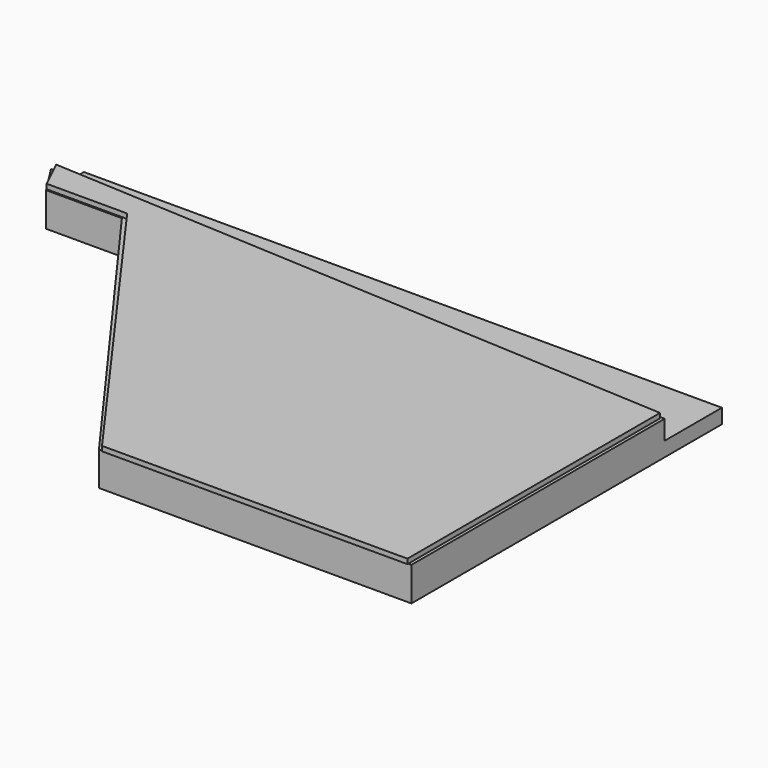
from build123d import *

# Parameters (mm, degrees)
PAD_DEPTH    = 3
SKETCH_R     = 1.75
POCKET_DEPTH = 2
PAD001_DEPTH = 4
PAD002_DEPTH = 1


with BuildPart() as part:
    # Sketch010 → Pad (new body)
    with BuildSketch(Plane.XY):
        Polygon((-46.128487, 25.244961), (1.34, -40), (65.75, -40), (65.75, 40), (-65.75, 40), (-65.75, 31.502308), (-61.754631, 25.244961), align=None)
    extrude(amount=PAD_DEPTH)

    # Sketch → Pocket (cut)
    with BuildSketch(Plane.XY):
        with Locations((-45, 36.301168)):
            Circle(SKETCH_R)
        with Locations((45, 36.301168)):
            Circle(SKETCH_R)
    extrude(amount=POCKET_DEPTH, mode=Mode.SUBTRACT)

    # Sketch011 (on Face5 of Pocket) → Pad001 (join)
    with BuildSketch(Plane.XY.offset(3)):
        Polygon((65.75, 25.244961), (65.75, -40), (1.34, -40), (-46.128487, 25.244961), (-61.754631, 25.244961), (-65.75, 31.502308), (-44.458256, 31.502308), (1.935629, -35.248356), (61.715927, -35.248356), (61.715927, 25.244961), align=None)
    extrude(amount=PAD001_DEPTH)

    # Sketch012 (on Face14 of Pad001) → Pad002 (join)
    with BuildSketch(Plane.XY.offset(7)):
        Polygon((-64.875565, 31.740883), (-61.877544, 25.56848), (-45.300247, 25.56848), (2.139057, -40.211658), (65.097519, -40.211658), (65.097519, 24.863066), align=None)
    extrude(amount=PAD002_DEPTH)


solid = part.part
